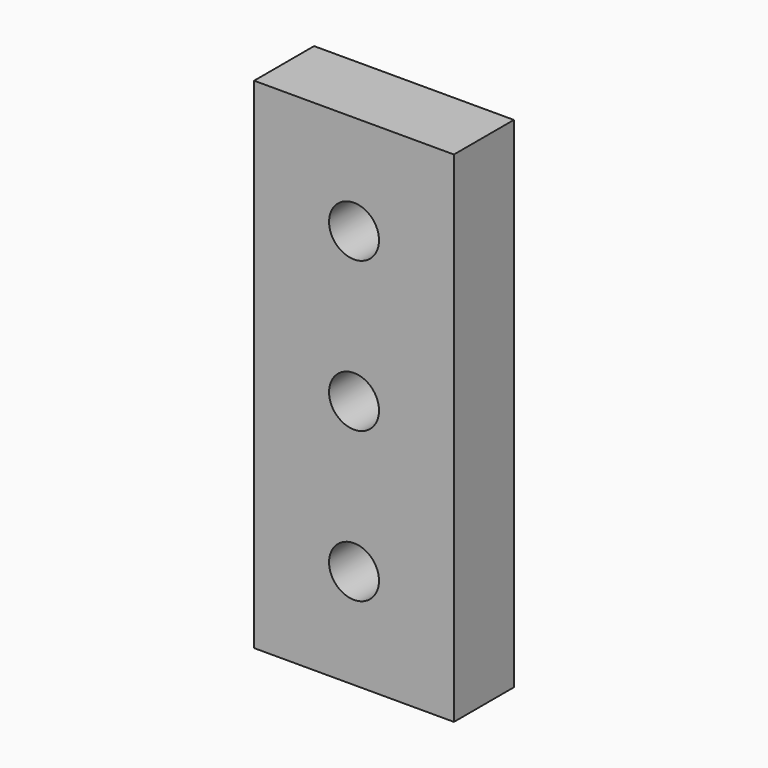
from build123d import *

# Parameters (mm, degrees)
F0_W     = 203.2
F0_H     = 508
F0_R     = 25.4
F1_DEPTH = 38.1


with BuildPart() as f1:
    # F0 (on Front) → F1 (new body, symmetric)
    with BuildSketch(Plane.XZ):
        Rectangle(F0_W, F0_H)
        with Locations((0, -152.4)):
            Circle(F0_R, mode=Mode.SUBTRACT)
        Circle(F0_R, mode=Mode.SUBTRACT)
        with Locations((0, 152.4)):
            Circle(F0_R, mode=Mode.SUBTRACT)
    extrude(amount=F1_DEPTH, both=True)


solid = f1.part
